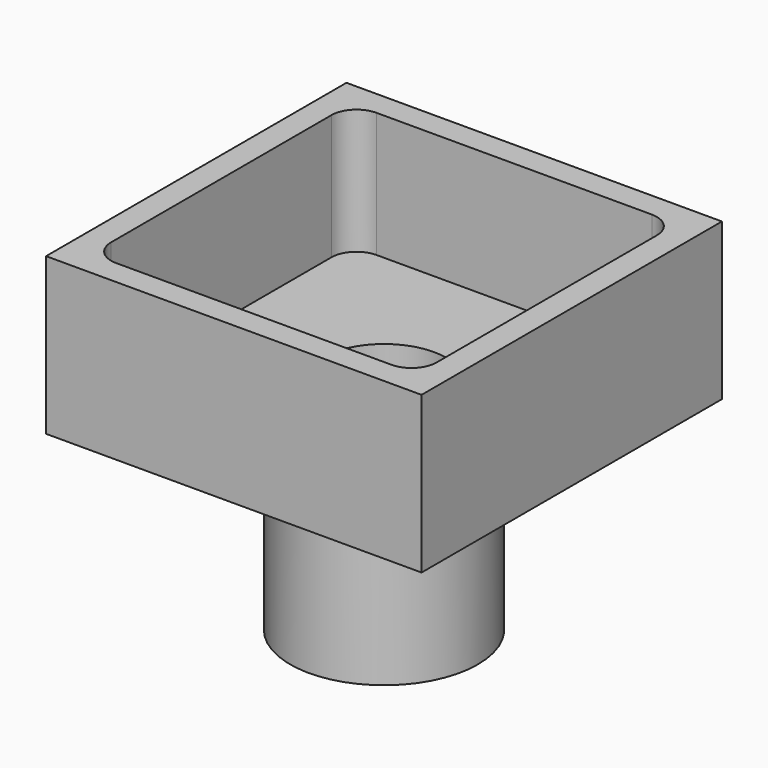
from build123d import *

# Parameters (mm, degrees)
F0_R     = 4.7625
F1_DEPTH = 17.4625
F3_W     = 19.05
F3_H     = 7.9375
F4_DEPTH = 9.525
F6_DEPTH = 6.35
F2_R     = 3.175
F7_DEPTH = 17.4625


with BuildPart() as f1:
    # F0 (on Top) → F1 (new body)
    with BuildSketch(Plane.XY):
        Circle(F0_R)
    extrude(amount=F1_DEPTH)

    # F3 (on Front) → F4 (join, symmetric)
    with BuildSketch(Plane.XZ):
        with Locations((0, 13.49375)):
            Rectangle(F3_W, F3_H)
    extrude(amount=F4_DEPTH, both=True)

    # F5 (on face) → F6 (cut)
    with BuildSketch(Plane.XY.offset(17.4625)):
        with BuildLine():
            Line((6.985, 8.255), (-6.985, 8.255))
            ThreePointArc((-6.985, 8.255), (-7.883026, 7.883026), (-8.255, 6.985))
            Line((-8.255, 6.985), (-8.255, -6.985))
            ThreePointArc((-8.255, -6.985), (-7.883026, -7.883026), (-6.985, -8.255))
            Line((-6.985, -8.255), (6.985, -8.255))
            ThreePointArc((6.985, -8.255), (7.883026, -7.883026), (8.255, -6.985))
            Line((8.255, -6.985), (8.255, 6.985))
            ThreePointArc((8.255, 6.985), (7.883026, 7.883026), (6.985, 8.255))
        make_face()
    extrude(amount=-F6_DEPTH, mode=Mode.SUBTRACT)

    # F2 (on face) → F7 (cut)
    with BuildSketch(Plane.XY):
        Circle(F2_R)
    extrude(amount=F7_DEPTH, mode=Mode.SUBTRACT)


solid = f1.part
